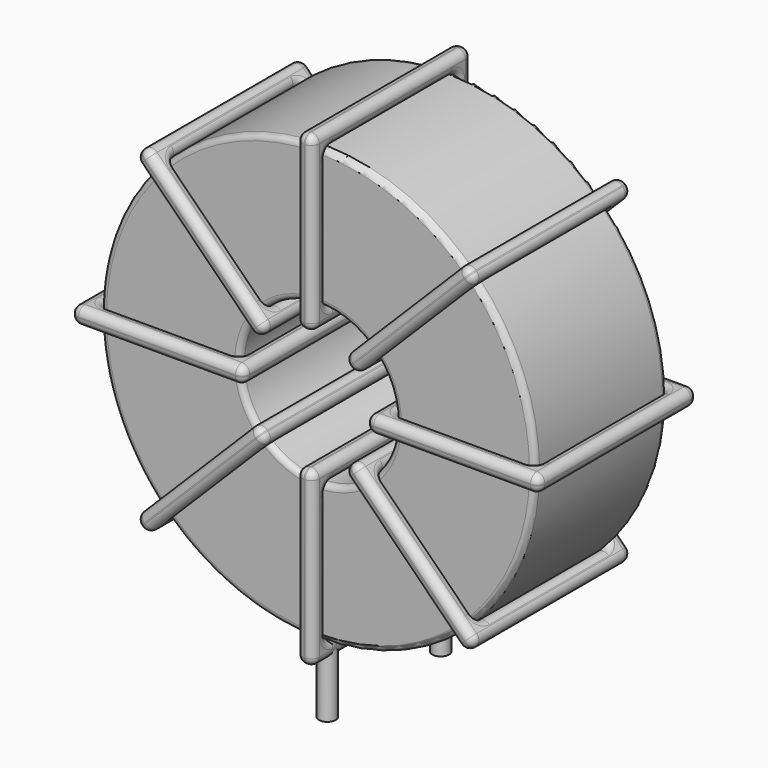
from build123d import *

# Parameters (mm, degrees)
SKETCH001_R       = 0.75
PAD001_DEPTH      = 1.5
PAD001_DEPTH_BACK = 5
SKETCH_R          = 19.455
SKETCH_R_2        = 6.985
PAD_DEPTH         = 7.39
FILLET_R          = 0.5
SKETCH003_W       = 15.47
SKETCH003_H       = 17.78
SKETCH003_W_2     = 12.47
SKETCH003_H_2     = 14.78
PAD002_DEPTH      = 0.75
FILLET001_R       = 0.705
SKETCH004_W       = 15.47
SKETCH004_H       = 17.78
SKETCH004_W_2     = 12.47
SKETCH004_H_2     = 14.78
PAD003_DEPTH      = 0.75
FILLET002_R       = 0.705
SKETCH005_W       = 15.47
SKETCH005_H       = 17.78
SKETCH005_W_2     = 12.47
SKETCH005_H_2     = 14.78
PAD004_DEPTH      = 0.75
FILLET003_R       = 0.705
SKETCH006_W       = 15.47
SKETCH006_H       = 17.78
SKETCH006_W_2     = 12.47
SKETCH006_H_2     = 14.78
PAD005_DEPTH      = 0.75
FILLET004_R       = 0.705


with BuildPart() as pad001:
    # Sketch001 → Pad001 (new body, two sides)
    with BuildSketch(Plane.XY.offset(2)) as pad001_sk:
        Circle(SKETCH001_R)
        with Locations((0, -12.7)):
            Circle(SKETCH001_R)
    extrude(amount=PAD001_DEPTH)
    extrude(pad001_sk.sketch, amount=-PAD001_DEPTH_BACK)


with BuildPart() as fillet_body:
    # Sketch → Pad (new body, symmetric)
    with BuildSketch(Plane.XZ.offset(6.35)):
        with Locations((0, 22.955)):
            Circle(SKETCH_R)
        with Locations((0, 22.955)):
            Circle(SKETCH_R_2, mode=Mode.SUBTRACT)
    extrude(amount=PAD_DEPTH, both=True)

    # Fillet
    fillet_edges = [fillet_body.edges().sort_by_distance(p)[0] for p in [
        (-6.985, -13.74, 22.955),
        (-19.455, -13.74, 22.955),
        (-19.455, 1.04, 22.955),
    ]]
    fillet(fillet_edges, radius=FILLET_R)


with BuildPart() as fillet001:
    # Sketch003 → Pad002 (new body, symmetric)
    with BuildSketch(Plane(origin=(0, 2.54, 22.955), x_dir=(1, 0, 0), z_dir=(0, 0, -1))):
        with Locations((-13.22, 8.89)):
            Rectangle(SKETCH003_W, SKETCH003_H)
        with Locations((-13.22, 8.89)):
            Rectangle(SKETCH003_W_2, SKETCH003_H_2, mode=Mode.SUBTRACT)
        with Locations((13.22, 8.89)):
            Rectangle(SKETCH003_W, SKETCH003_H)
        with Locations((13.22, 8.89)):
            Rectangle(SKETCH003_W_2, SKETCH003_H_2, mode=Mode.SUBTRACT)
    extrude(amount=PAD002_DEPTH, both=True)

    # Fillet001
    fillet001_edges = [fillet001.edges().sort_by_distance(p)[0] for p in [
        (-6.985, -13.74, 22.955),
        (-6.985, 1.04, 22.955),
        (-6.985, -6.35, 23.705),
        (-6.985, -6.35, 22.205),
        (-20.955, -15.24, 22.955),
        (-5.485, -15.24, 22.955),
        (-13.22, -15.24, 23.705),
        (-13.22, -15.24, 22.205),
        (-5.485, 2.54, 22.955),
        (-5.485, -6.35, 23.705),
        (-5.485, -6.35, 22.205),
        (6.985, -13.74, 22.955),
        (19.455, -13.74, 22.955),
        (13.22, -13.74, 23.705),
        (13.22, -13.74, 22.205),
        (19.455, 1.04, 22.955),
        (19.455, -6.35, 23.705),
        (19.455, -6.35, 22.205),
        (5.485, -15.24, 22.955),
        (20.955, -15.24, 22.955),
        (13.22, -15.24, 23.705),
        (13.22, -15.24, 22.205),
        (20.955, 2.54, 22.955),
        (20.955, -6.35, 23.705),
        (20.955, -6.35, 22.205),
        (-19.455, -13.74, 22.955),
        (-13.22, -13.74, 23.705),
        (-13.22, -13.74, 22.205),
        (6.985, 1.04, 22.955),
        (6.985, -6.35, 23.705),
        (6.985, -6.35, 22.205),
        (13.22, 1.04, 23.705),
        (13.22, 1.04, 22.205),
        (5.485, 2.54, 22.955),
        (13.22, 2.54, 23.705),
        (13.22, 2.54, 22.205),
        (5.485, -6.35, 23.705),
        (5.485, -6.35, 22.205),
        (-20.955, 2.54, 22.955),
        (-13.22, 2.54, 23.705),
        (-13.22, 2.54, 22.205),
        (-20.955, -6.35, 23.705),
        (-20.955, -6.35, 22.205),
        (-19.455, 1.04, 22.955),
        (-19.455, -6.35, 23.705),
        (-19.455, -6.35, 22.205),
        (-13.22, 1.04, 23.705),
        (-13.22, 1.04, 22.205),
    ]]
    fillet(fillet001_edges, radius=FILLET001_R)


with BuildPart() as fillet002:
    # Sketch004 → Pad003 (new body, symmetric)
    with BuildSketch(Plane(origin=(0, 2.54, 22.955), x_dir=(0.707108, 0, 0.707106), z_dir=(0.707106, 0, -0.707108))):
        with Locations((-13.22, 8.89)):
            Rectangle(SKETCH004_W, SKETCH004_H)
        with Locations((-13.22, 8.89)):
            Rectangle(SKETCH004_W_2, SKETCH004_H_2, mode=Mode.SUBTRACT)
        with Locations((13.22, 8.89)):
            Rectangle(SKETCH004_W, SKETCH004_H)
        with Locations((13.22, 8.89)):
            Rectangle(SKETCH004_W_2, SKETCH004_H_2, mode=Mode.SUBTRACT)
    extrude(amount=PAD003_DEPTH, both=True)

    # Fillet002
    fillet002_edges = [fillet002.edges().sort_by_distance(p)[0] for p in [
        (-13.756778, -13.74, 9.198253),
        (-4.939147, 1.04, 18.015865),
        (-9.878292, 1.04, 14.13739),
        (-8.817633, 1.04, 13.076728),
        (-14.81744, -15.24, 8.137595),
        (-14.81744, 2.54, 8.137595),
        (-15.347769, -6.35, 8.667925),
        (-14.28711, -6.35, 7.607264),
        (-3.878485, -15.24, 19.076524),
        (-9.878292, 2.54, 14.13739),
        (-8.817633, 2.54, 13.076728),
        (4.939147, 1.04, 27.894135),
        (4.939147, -13.74, 27.894135),
        (4.408817, -6.35, 28.424466),
        (5.469476, -6.35, 27.363804),
        (13.756778, 1.04, 36.711747),
        (8.817633, 1.04, 32.833272),
        (9.878292, 1.04, 31.77261),
        (3.878485, -15.24, 26.833476),
        (14.81744, -15.24, 37.772405),
        (8.817633, -15.24, 32.833272),
        (9.878292, -15.24, 31.77261),
        (14.81744, 2.54, 37.772405),
        (14.28711, -6.35, 38.302736),
        (15.347769, -6.35, 37.242075),
        (-13.756778, 1.04, 9.198253),
        (-14.287108, -6.35, 9.728584),
        (-13.226449, -6.35, 8.667923),
        (13.756778, -13.74, 36.711747),
        (8.817633, -13.74, 32.833272),
        (9.878292, -13.74, 31.77261),
        (13.226449, -6.35, 37.242077),
        (14.287108, -6.35, 36.181416),
        (3.878485, 2.54, 26.833476),
        (8.817633, 2.54, 32.833272),
        (9.878292, 2.54, 31.77261),
        (3.348156, -6.35, 27.363807),
        (4.408815, -6.35, 26.303146),
        (-3.878485, 2.54, 19.076524),
        (-4.408815, -6.35, 19.606854),
        (-3.348156, -6.35, 18.546193),
        (-9.878292, -15.24, 14.13739),
        (-8.817633, -15.24, 13.076728),
        (-4.939147, -13.74, 18.015865),
        (-9.878292, -13.74, 14.13739),
        (-8.817633, -13.74, 13.076728),
        (-5.469476, -6.35, 18.546196),
        (-4.408817, -6.35, 17.485534),
    ]]
    fillet(fillet002_edges, radius=FILLET002_R)


with BuildPart() as fillet003:
    # Sketch005 → Pad004 (new body, symmetric)
    with BuildSketch(Plane(origin=(0, 2.54, 22.955), x_dir=(0.707108, 0, -0.707106), z_dir=(-0.707106, 0, -0.707108))):
        with Locations((-13.22, 8.89)):
            Rectangle(SKETCH005_W, SKETCH005_H)
        with Locations((-13.22, 8.89)):
            Rectangle(SKETCH005_W_2, SKETCH005_H_2, mode=Mode.SUBTRACT)
        with Locations((13.22, 8.89)):
            Rectangle(SKETCH005_W, SKETCH005_H)
        with Locations((13.22, 8.89)):
            Rectangle(SKETCH005_W_2, SKETCH005_H_2, mode=Mode.SUBTRACT)
    extrude(amount=PAD004_DEPTH, both=True)

    # Fillet003
    fillet003_edges = [fillet003.edges().sort_by_distance(p)[0] for p in [
        (-13.756778, -13.74, 36.711747),
        (-4.939147, 1.04, 27.894135),
        (-8.817633, 1.04, 32.833272),
        (-9.878292, 1.04, 31.77261),
        (-14.81744, -15.24, 37.772405),
        (-3.878485, -15.24, 26.833476),
        (-8.817633, -15.24, 32.833272),
        (-9.878292, -15.24, 31.77261),
        (-3.878485, 2.54, 26.833476),
        (-3.348156, -6.35, 27.363807),
        (-4.408815, -6.35, 26.303146),
        (4.939147, 1.04, 18.015865),
        (4.939147, -13.74, 18.015865),
        (5.469476, -6.35, 18.546196),
        (4.408817, -6.35, 17.485534),
        (13.756778, 1.04, 9.198253),
        (9.878292, 1.04, 14.13739),
        (8.817633, 1.04, 13.076728),
        (3.878485, 2.54, 19.076524),
        (3.878485, -15.24, 19.076524),
        (4.408815, -6.35, 19.606854),
        (3.348156, -6.35, 18.546193),
        (14.81744, 2.54, 8.137595),
        (9.878292, 2.54, 14.13739),
        (8.817633, 2.54, 13.076728),
        (-13.756778, 1.04, 36.711747),
        (-13.226449, -6.35, 37.242077),
        (-14.287108, -6.35, 36.181416),
        (13.756778, -13.74, 9.198253),
        (9.878292, -13.74, 14.13739),
        (8.817633, -13.74, 13.076728),
        (14.287108, -6.35, 9.728584),
        (13.226449, -6.35, 8.667923),
        (14.81744, -15.24, 8.137595),
        (15.347769, -6.35, 8.667925),
        (14.28711, -6.35, 7.607264),
        (9.878292, -15.24, 14.13739),
        (8.817633, -15.24, 13.076728),
        (-14.81744, 2.54, 37.772405),
        (-8.817633, 2.54, 32.833272),
        (-9.878292, 2.54, 31.77261),
        (-14.28711, -6.35, 38.302736),
        (-15.347769, -6.35, 37.242075),
        (-4.939147, -13.74, 27.894135),
        (-8.817633, -13.74, 32.833272),
        (-9.878292, -13.74, 31.77261),
        (-4.408817, -6.35, 28.424466),
        (-5.469476, -6.35, 27.363804),
    ]]
    fillet(fillet003_edges, radius=FILLET003_R)


with BuildPart() as fillet004:
    # Sketch006 → Pad005 (new body, symmetric)
    with BuildSketch(Plane(origin=(0, 2.54, 22.955), x_dir=(0, 0, 1), z_dir=(1, 0, 0))):
        with Locations((-13.22, 8.89)):
            Rectangle(SKETCH006_W, SKETCH006_H)
        with Locations((-13.22, 8.89)):
            Rectangle(SKETCH006_W_2, SKETCH006_H_2, mode=Mode.SUBTRACT)
        with Locations((13.22, 8.89)):
            Rectangle(SKETCH006_W, SKETCH006_H)
        with Locations((13.22, 8.89)):
            Rectangle(SKETCH006_W_2, SKETCH006_H_2, mode=Mode.SUBTRACT)
    extrude(amount=PAD005_DEPTH, both=True)

    # Fillet004
    fillet004_edges = [fillet004.edges().sort_by_distance(p)[0] for p in [
        (0, -13.74, 42.41),
        (0, 1.04, 42.41),
        (-0.75, -6.35, 42.41),
        (0.75, -6.35, 42.41),
        (0, 2.54, 43.91),
        (0, 2.54, 28.44),
        (-0.75, 2.54, 36.175),
        (0.75, 2.54, 36.175),
        (0, -15.24, 28.44),
        (-0.75, -6.35, 28.44),
        (0.75, -6.35, 28.44),
        (0, -13.74, 3.5),
        (0, -13.74, 15.97),
        (-0.75, -13.74, 9.735),
        (0.75, -13.74, 9.735),
        (0, 1.04, 15.97),
        (-0.75, -6.35, 15.97),
        (0.75, -6.35, 15.97),
        (0, 2.54, 17.47),
        (0, 2.54, 2),
        (-0.75, 2.54, 9.735),
        (0.75, 2.54, 9.735),
        (0, -15.24, 2),
        (-0.75, -6.35, 2),
        (0.75, -6.35, 2),
        (0, -13.74, 29.94),
        (-0.75, -13.74, 36.175),
        (0.75, -13.74, 36.175),
        (0, 1.04, 3.5),
        (-0.75, -6.35, 3.5),
        (0.75, -6.35, 3.5),
        (-0.75, 1.04, 9.735),
        (0.75, 1.04, 9.735),
        (0, -15.24, 17.47),
        (-0.75, -15.24, 9.735),
        (0.75, -15.24, 9.735),
        (-0.75, -6.35, 17.47),
        (0.75, -6.35, 17.47),
        (0, -15.24, 43.91),
        (-0.75, -15.24, 36.175),
        (0.75, -15.24, 36.175),
        (-0.75, -6.35, 43.91),
        (0.75, -6.35, 43.91),
        (0, 1.04, 29.94),
        (-0.75, -6.35, 29.94),
        (0.75, -6.35, 29.94),
        (-0.75, 1.04, 36.175),
        (0.75, 1.04, 36.175),
    ]]
    fillet(fillet004_edges, radius=FILLET004_R)


solid = Compound([pad001.part, fillet_body.part, fillet001.part, fillet002.part, fillet003.part, fillet004.part])
